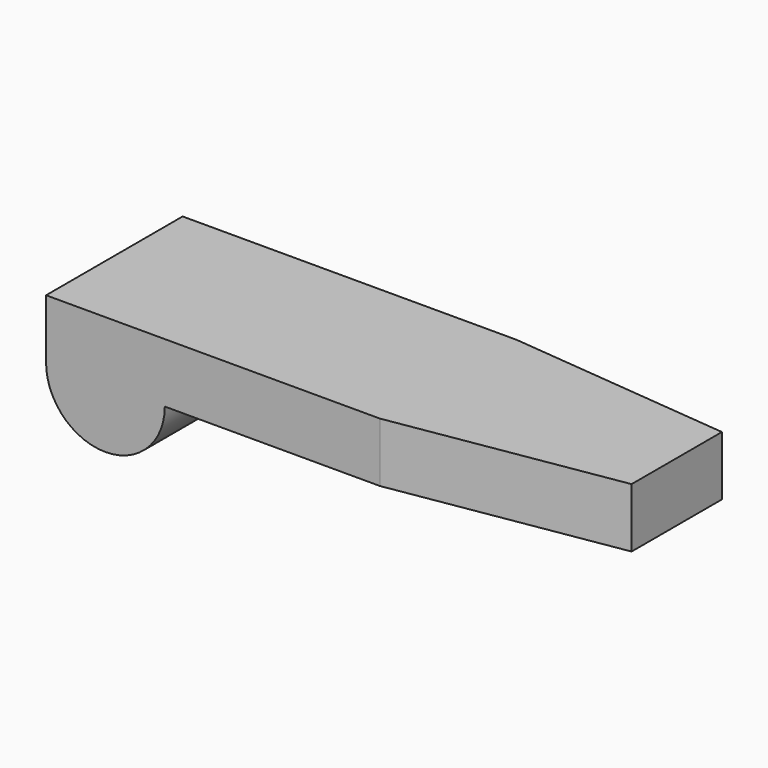
from build123d import *

# Parameters (mm, degrees)
F1_DEPTH = 46
F2_DEPTH = 46
F4_DEPTH = 25


with BuildPart() as f1:
    # F0 (on Front) → F1 (new body)
    with BuildSketch(Plane.XZ):
        with BuildLine():
            Line((-16, 16), (-16, 0))
            ThreePointArc((-16, 0), (0, -16), (16, 0))
            Line((16, 0), (134, 0))
            Line((134, 0), (134, 16))
            Line((134, 16), (-16, 16))
        make_face()
    extrude(amount=F1_DEPTH)

    # F0 (on Front) → F2 (join)
    with BuildSketch(Plane.XZ):
        with BuildLine():
            Line((-16, 16), (-16, 0))
            ThreePointArc((-16, 0), (0, -16), (16, 0))
            Line((16, 0), (134, 0))
            Line((134, 0), (134, 16))
            Line((134, 16), (-16, 16))
        make_face()
    extrude(amount=F2_DEPTH)

    # F3 (on face) → F4 (cut)
    with BuildSketch(Plane.XY.offset(16)):
        Polygon((134, -36.245503), (74, -46), (134, -46), align=None)
        Polygon((134, 0), (74, 0), (134, -5.8145), align=None)
    extrude(amount=-F4_DEPTH, mode=Mode.SUBTRACT)


solid = f1.part
